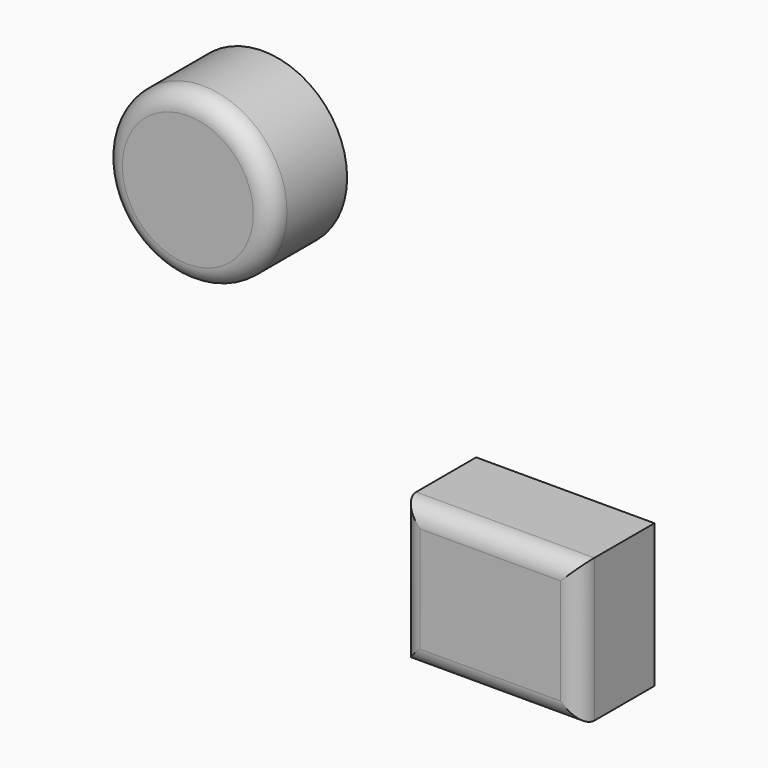
from build123d import *

# Parameters (mm, degrees)
F0_R     = 22.789332
F0_W     = 48.250304
F0_H     = 38.783472
F1_DEPTH = 25.4
F2_R     = 5.08


with BuildPart() as f1:
    # F0 (on Front) → F1 (new body)
    with BuildSketch(Plane.XZ):
        with Locations((-37.409257, 30.690858)):
            Circle(F0_R)
        with Locations((44.433034, -43.97496)):
            Rectangle(F0_W, F0_H)
    extrude(amount=F1_DEPTH)

    # F2
    f2_edges = [f1.edges().sort_by_distance(p)[0] for p in [
        (-60.19859, -25.4, 30.690858),
        (44.433034, -25.4, -24.583224),
        (20.307882, -25.4, -43.97496),
        (44.433034, -25.4, -63.366696),
        (68.558186, -25.4, -43.97496),
    ]]
    fillet(f2_edges, radius=F2_R)


solid = f1.part
